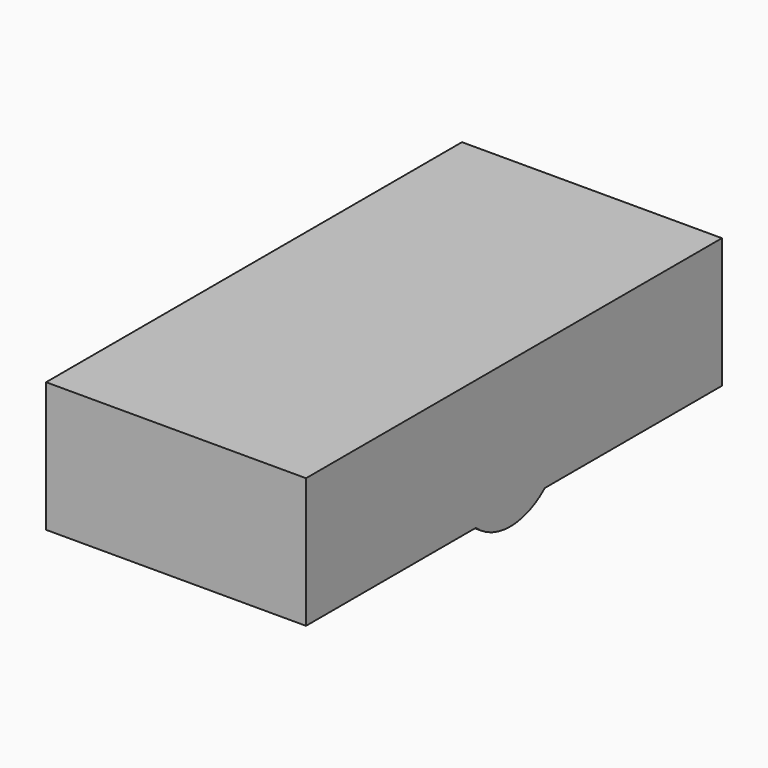
from build123d import *

# Parameters (mm, degrees)
F0_W          = 355.6
F0_H          = 711.2
F1_DEPTH      = 177.8
F3_DEPTH      = 25.4
F3_DEPTH_BACK = 355.6


with BuildPart() as f1:
    # F0 (on Top) → F1 (new body)
    with BuildSketch(Plane.XY):
        with Locations((-177.8, 355.6)):
            Rectangle(F0_W, F0_H)
    extrude(amount=-F1_DEPTH)

    # F2 (on face) → F3 (join, two sides)
    with BuildSketch(Plane(origin=(-355.6, 0, 0), x_dir=(0, -1, 0), z_dir=(-1, 0, 0))) as f3_sk:
        with BuildLine():
            ThreePointArc((-290.325146, -177.8), (-268.245349, -147.75703), (-260.427027, -111.30197))
            ThreePointArc((-260.427027, -111.30197), (-385.782087, -30.220291), (-408.328908, -177.8))
            Line((-408.328908, -177.8), (-290.325146, -177.8))
        make_face()
        with BuildLine():
            Line((-290.325146, -177.8), (-408.328908, -177.8))
            ThreePointArc((-408.328908, -177.8), (-349.327027, -200.20197), (-290.325146, -177.8))
        make_face()
    extrude(amount=F3_DEPTH)
    extrude(f3_sk.sketch, amount=-F3_DEPTH_BACK)


solid = f1.part
